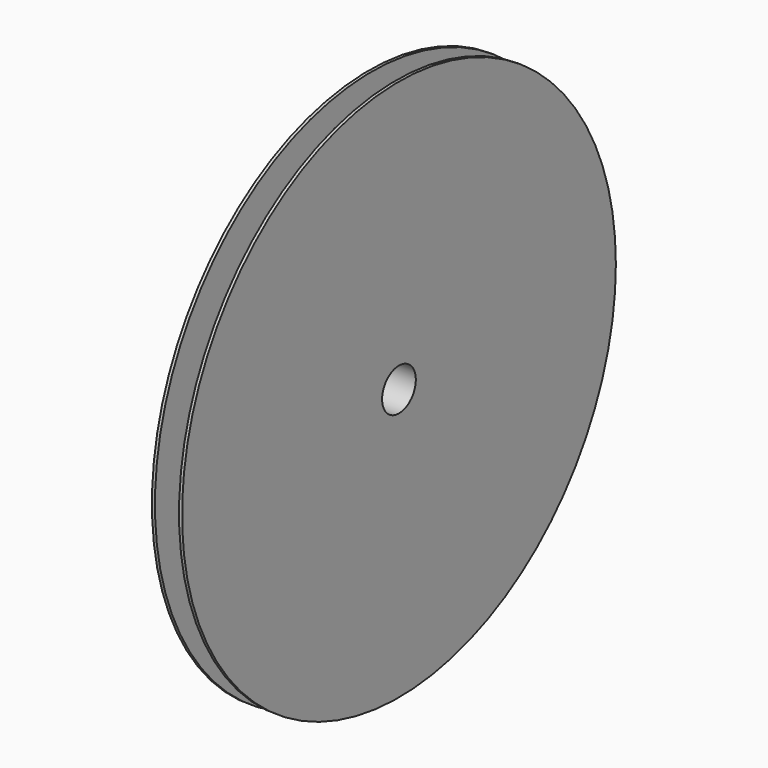
from build123d import *

# Parameters (mm, degrees)
F0_R     = 90
F0_R_2   = 7
F1_DEPTH = 1
F2_R     = 8
F2_R_2   = 7
F3_DEPTH = 8
F4_R     = 90
F4_R_2   = 8
F4_R_3   = 7
F5_DEPTH = 1


with BuildPart() as f1:
    # F0 (on Right) → F1 (new body)
    with BuildSketch(Plane.YZ):
        Circle(F0_R)
        Circle(F0_R_2, mode=Mode.SUBTRACT)
    extrude(amount=F1_DEPTH)

    # F2 (on face) → F3 (join)
    with BuildSketch(Plane.YZ.offset(1)):
        Circle(F2_R)
        Circle(F2_R_2, mode=Mode.SUBTRACT)
    extrude(amount=F3_DEPTH)

    # F4 (on face) → F5 (join)
    with BuildSketch(Plane.YZ.offset(9)):
        Circle(F4_R)
        Circle(F4_R_2, mode=Mode.SUBTRACT)
        Circle(F4_R_2)
        Circle(F4_R_3, mode=Mode.SUBTRACT)
    extrude(amount=F5_DEPTH)


solid = f1.part
